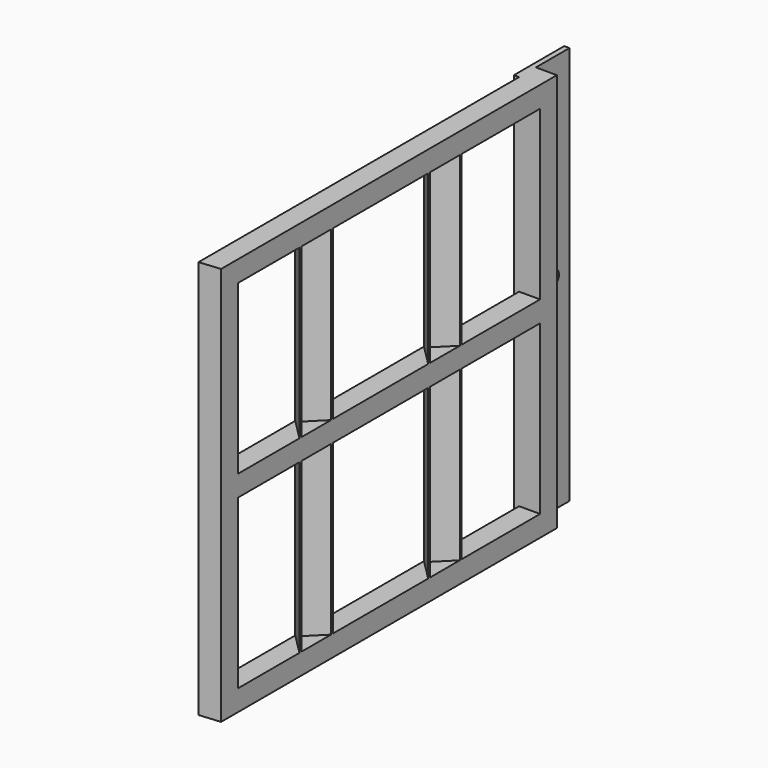
from build123d import *

# Parameters (mm, degrees)
F0_W     = 25.4
F0_H     = 25.4
F0_W_2   = 21.1836
F0_H_2   = 21.1836
F1_DEPTH = 508
F2_W     = 25.4
F2_H     = 25.4
F3_DEPTH = 482.6
F4_W     = 76.2
F4_H     = 482.6
F5_DEPTH = 6.35
F7_DEPTH = 482.6
F9_DEPTH = 482.6


with BuildPart() as f1:
    # F0 (on Front) → F1 (new body)
    with BuildSketch(Plane.XZ):
        with Locations((0, 457.2)):
            Rectangle(F0_W, F0_H)
        with Locations((0, 457.2)):
            Rectangle(F0_W_2, F0_H_2, mode=Mode.SUBTRACT)
        with Locations((0, 228.6)):
            Rectangle(F0_W, F0_H)
        with Locations((0, 228.6)):
            Rectangle(F0_W_2, F0_H_2, mode=Mode.SUBTRACT)
        Rectangle(F0_W, F0_H)
        Rectangle(F0_W_2, F0_H_2, mode=Mode.SUBTRACT)
    extrude(amount=F1_DEPTH)

    # F2 (on face) → F3 (join)
    with BuildSketch(Plane.XY.offset(469.9)):
        with Locations((0, -12.7)):
            Rectangle(F2_W, F2_H)
        with Locations((0, -495.3)):
            Rectangle(F2_W, F2_H)
    extrude(amount=-F3_DEPTH)

    # F4 (on face) → F5 (join)
    with BuildSketch(Plane(origin=(-12.7, 0, 0), x_dir=(0, -1, 0), z_dir=(-1, 0, 0))):
        with Locations((-12.7, 228.6)):
            Rectangle(F4_W, F4_H)
        with BuildLine():
            ThreePointArc((-19.05, 242.049516), (-25.4, 225.425), (-31.75, 242.049516))
            Line((-31.75, 242.049516), (-31.75, 311.15))
            ThreePointArc((-31.75, 311.15), (-25.4, 317.5), (-19.05, 311.15))
            Line((-19.05, 311.15), (-19.05, 242.049516))
        make_face(mode=Mode.SUBTRACT)
    extrude(amount=F5_DEPTH)

    # F6 (on face) → F7 (join)
    with BuildSketch(Plane.XY.offset(469.9)):
        Polygon((-12.7, -169.333333), (12.7, -194.733333), (12.7, -191.751888), (-9.718555, -169.333333), (12.7, -146.914778), (12.7, -143.933333), align=None)
        Polygon((-12.7, -364.066667), (12.7, -389.466667), (12.7, -386.485222), (-9.718555, -364.066667), (12.7, -341.648112), (12.7, -338.666667), align=None)
    extrude(amount=-F7_DEPTH)

    # F8 (on face) → F9 (join)
    with BuildSketch(Plane.XY.offset(469.9)):
        Polygon((-12.7, -510.38125), (12.7, -508), (-12.7, -508), align=None)
    extrude(amount=-F9_DEPTH)


solid = f1.part
